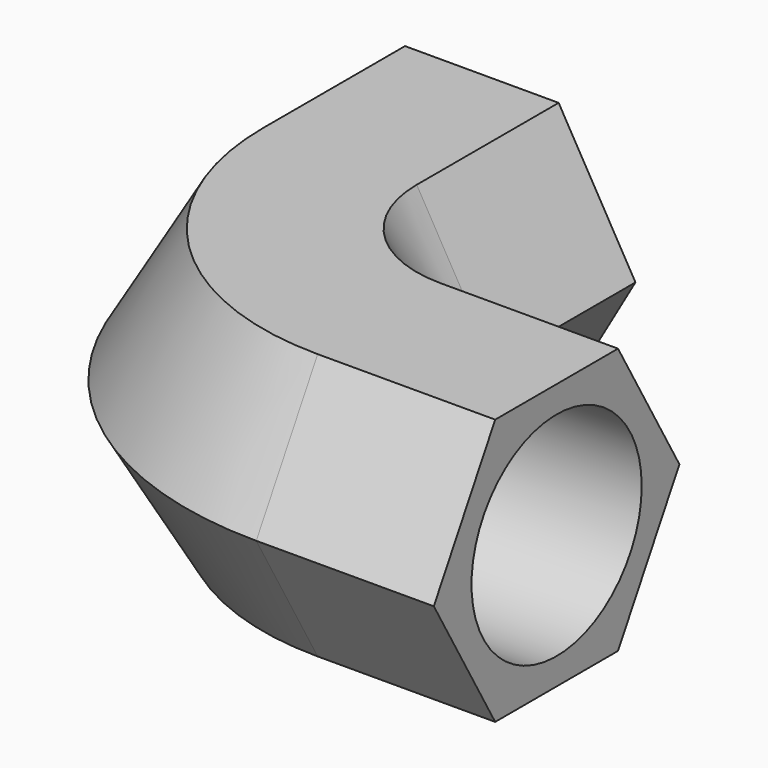
from build123d import *

# Parameters (mm, degrees)
F0_R = 7.62


with BuildPart() as f2:
    # F2: sweep along a path in F1
    with BuildLine(Plane.XY) as f2_path:
        Line((0, 0), (0, -12.7))
        ThreePointArc((0, -12.7), (4.0955930383, -22.5821549853), (13.9809573592, -26.6699957028))
        Line((13.9809573592, -26.6699957028), (26.6809534527, -26.6600344671))
    # F0 (on Front) → F2 (sweep)
    with BuildSketch(Plane.XZ):
        Polygon((5.499261314, 9.525), (-5.499261314, 9.525), (-10.9985226281, 0), (-5.499261314, -9.525), (5.499261314, -9.525), (10.9985226281, 0), align=None)
        Circle(F0_R, mode=Mode.SUBTRACT)
    sweep(path=f2_path.line)


solid = f2.part
